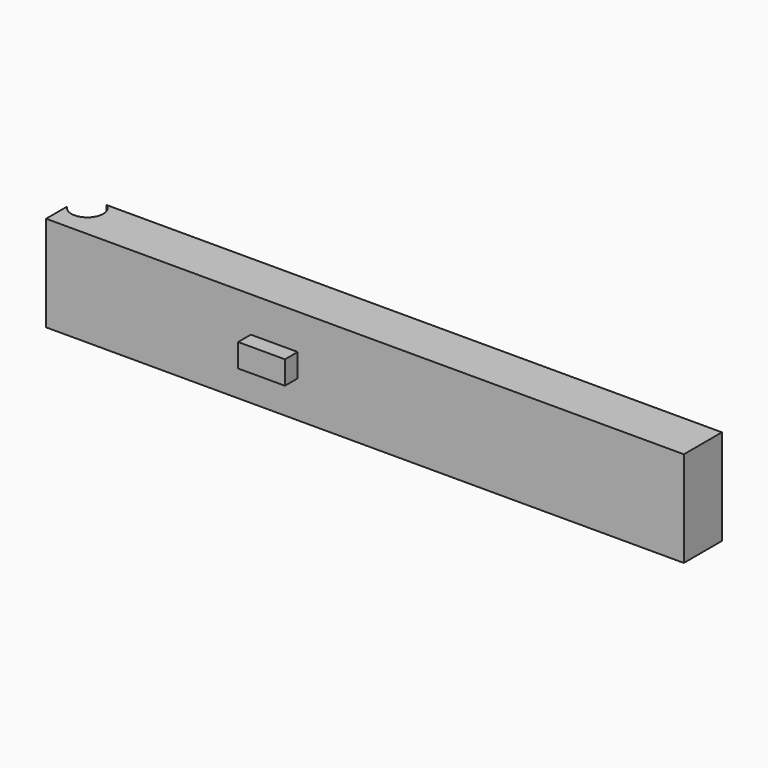
from build123d import *

# Parameters (mm, degrees)
F1_DEPTH = 76.2
F2_W     = 37.329167
F2_H     = 18.541375
F3_DEPTH = 12.7


with BuildPart() as f1:
    # F0 (on Top) → F1 (new body)
    with BuildSketch(Plane.XY):
        with BuildLine():
            Line((486.765119, 17.632535), (-3.269749, 17.632535))
            ThreePointArc((-3.269749, 17.632535), (0.937395, 13.047925), (2.461753, 7.015095))
            ThreePointArc((2.461753, 7.015095), (-6.949421, -5.251675), (-21.234881, 0.661825))
            Line((-21.234881, 0.661825), (-21.234881, -20.286895))
            Line((-21.234881, -20.286895), (486.765119, -20.286895))
            Line((486.765119, -20.286895), (486.765119, 17.632535))
        make_face()
    extrude(amount=-F1_DEPTH)

    # F2 (on face) → F3 (join)
    with BuildSketch(Plane.XZ.offset(20.286895)):
        with Locations((160.527765, -37.539641)):
            Rectangle(F2_W, F2_H)
    extrude(amount=F3_DEPTH)


solid = f1.part
